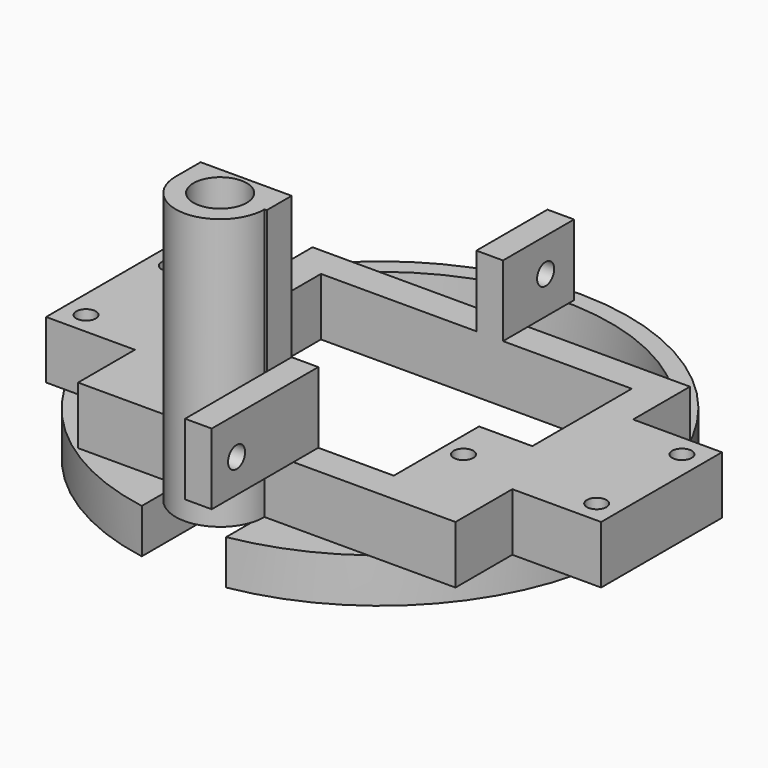
from build123d import *

# Parameters (mm, degrees)
SKETCH009_R     = 3
SKETCH009_R_2   = 1.1
PAD004_DEPTH    = 6.5
PAD005_DEPTH    = 5
SKETCH017_W     = 3
SKETCH017_H     = 10
SKETCH017_H_2   = 15
PAD010_DEPTH    = 8
SKETCH018_R     = 3
PAD011_DEPTH    = 24
SKETCH019_R     = 1.2
POCKET004_DEPTH = 3
SKETCH020_R     = 1.2
POCKET005_DEPTH = 3


with BuildPart() as part:
    # Sketch009 → Pad004 (new body)
    with BuildSketch(Plane.XY.offset(-5)):
        with BuildLine():
            Line((42.5, 10), (52.5, 10))
            Line((52.5, 10), (52.5, -7))
            Line((52.5, -7), (42.5, -7))
            Line((42.5, -7), (42.5, -15))
            Line((42.5, -15), (21, -15))
            ThreePointArc((11, -15), (16, -20), (21, -15))
            Line((0, -15), (11, -15))
            Line((0, -7), (0, -15))
            Line((-10, -7), (0, -7))
            Line((-10, 10), (-10, -7))
            Line((0, 10), (-10, 10))
            Line((0, 10), (0, 18))
            Line((0, 18), (42.5, 18))
            Line((42.5, 18), (42.5, 10))
        make_face()
        with Locations((16, -15)):
            Circle(SKETCH009_R, mode=Mode.SUBTRACT)
        with Locations((-7.5, -4.5)):
            Circle(SKETCH009_R_2, mode=Mode.SUBTRACT)
        with Locations((-7.5, 7.5)):
            Circle(SKETCH009_R_2, mode=Mode.SUBTRACT)
        with Locations((50, 7.5)):
            Circle(SKETCH009_R_2, mode=Mode.SUBTRACT)
        with Locations((50, -4.5)):
            Circle(SKETCH009_R_2, mode=Mode.SUBTRACT)
        with Locations((7.5, -4.5)):
            Circle(SKETCH009_R_2, mode=Mode.SUBTRACT)
        with Locations((35, -4.5)):
            Circle(SKETCH009_R_2, mode=Mode.SUBTRACT)
        Polygon((38.75, 14.5), (38.75, 0.5), (32.75, 0.5), (32.75, -11.5), (9.75, -11.5), (9.75, 0.5), (3.75, 0.5), (3.75, 14.5), align=None, mode=Mode.SUBTRACT)
    extrude(amount=-PAD004_DEPTH)

    # Sketch010 → Pad005 (new body)
    with BuildSketch(Plane(origin=(0, 0, -11.5), x_dir=(1, 0, 0), z_dir=(0, 0, -1))):
        with BuildLine():
            Line((11.25, 20.094157), (11.25, 11.094157))
            Line((11.25, 11.094157), (-2.172983, 11.094157))
            ThreePointArc((-2.172983, 11.094157), (16, -33.5), (34.172983, 11.094157))
            Line((34.172983, 11.094157), (20.75, 11.094157))
            Line((20.75, 11.094157), (20.75, 20.094157))
            ThreePointArc((20.75, 20.094157), (16, -35.5), (11.25, 20.094157))
        make_face()
    extrude(amount=PAD005_DEPTH)

    # Sketch017 → Pad010 (new body)
    with BuildSketch(Plane.XY.offset(-5)):
        with Locations((22.75, 19.5)):
            Rectangle(SKETCH017_W, SKETCH017_H)
        with Locations((22.75, -19)):
            Rectangle(SKETCH017_W, SKETCH017_H_2)
    extrude(amount=PAD010_DEPTH)

    # Sketch018 → Pad011 (new body)
    with BuildSketch(Plane.XY.offset(-5)):
        with BuildLine():
            ThreePointArc((11, -15), (16, -20), (21, -15))
            Line((21.25, -15), (21, -15))
            Line((21.25, -11.5), (21.25, -15))
            Line((11, -11.5), (21.25, -11.5))
            Line((11, -15), (11, -11.5))
        make_face()
        with Locations((16, -15)):
            Circle(SKETCH018_R, mode=Mode.SUBTRACT)
    extrude(amount=PAD011_DEPTH)

    # Sketch019 → Pocket004 (cut)
    with BuildSketch(Plane(origin=(21.25, 0, -5), x_dir=(0, -1, 0), z_dir=(-1, 0, 0))):
        with Locations((23, 3.757359)):
            Circle(SKETCH019_R)
    extrude(amount=-POCKET004_DEPTH, mode=Mode.SUBTRACT)

    # Sketch020 → Pocket005 (cut)
    with BuildSketch(Plane(origin=(21.25, 0, -5), x_dir=(0, -1, 0), z_dir=(-1, 0, 0))):
        with Locations((-20.5, 4.225083)):
            Circle(SKETCH020_R)
    extrude(amount=-POCKET005_DEPTH, mode=Mode.SUBTRACT)


solid = part.part
